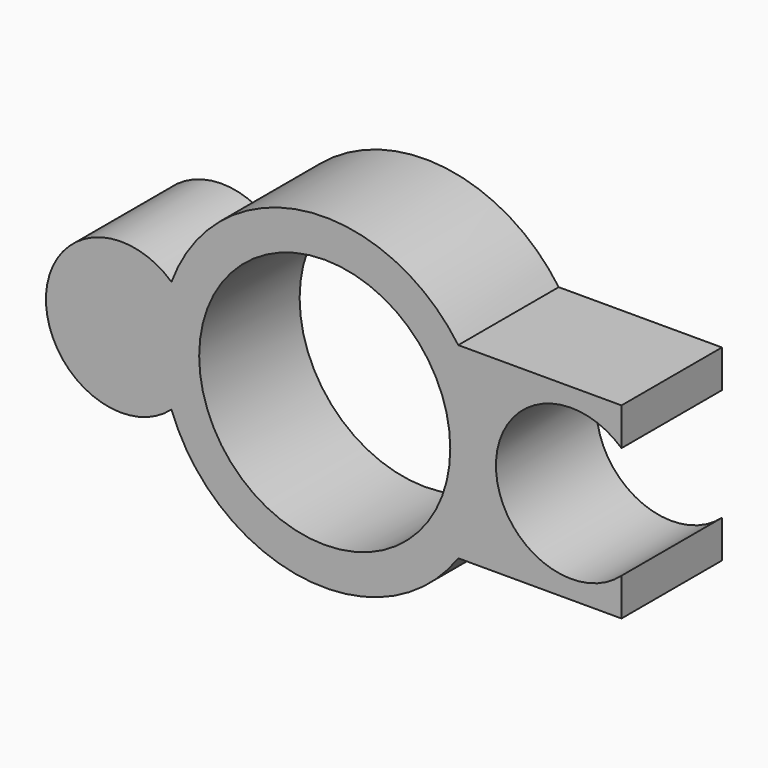
from build123d import *

# Parameters (mm, degrees)
F0_R     = 5
F1_DEPTH = 5


with BuildPart() as f1:
    # F0 (on Front) → F1 (new body)
    with BuildSketch(Plane.XZ):
        with BuildLine():
            ThreePointArc((5.319003, -3.736068), (6.197722, -1.959142), (6.5, 0))
            ThreePointArc((6.5, 0), (6.197722, 1.959142), (5.319003, 3.736068))
            ThreePointArc((5.319003, 3.736068), (-0.846328, 6.444667), (-6.103278, 2.236068))
            ThreePointArc((-6.103278, 2.236068), (-6.5, 0), (-6.103278, -2.236068))
            ThreePointArc((-6.103278, -2.236068), (-0.846328, -6.444667), (5.319003, -3.736068))
        make_face()
        Circle(F0_R, mode=Mode.SUBTRACT)
        with BuildLine():
            ThreePointArc((-6.103278, -2.236068), (-6.5, 0), (-6.103278, 2.236068))
            ThreePointArc((-6.103278, 2.236068), (-11.103278, 0), (-6.103278, -2.236068))
        make_face()
        with BuildLine():
            ThreePointArc((5.319003, 3.736068), (6.197722, 1.959142), (6.5, 0))
            ThreePointArc((6.5, 0), (6.197722, -1.959142), (5.319003, -3.736068))
            Line((5.319003, -3.736068), (11.819003, -3.736068))
            Line((11.819003, -3.736068), (11.819003, -2.236068))
            ThreePointArc((11.819003, -2.236068), (6.819003, 0), (11.819003, 2.236068))
            Line((11.819003, 2.236068), (11.819003, 3.736068))
            Line((11.819003, 3.736068), (5.319003, 3.736068))
        make_face()
    extrude(amount=F1_DEPTH)


solid = f1.part
